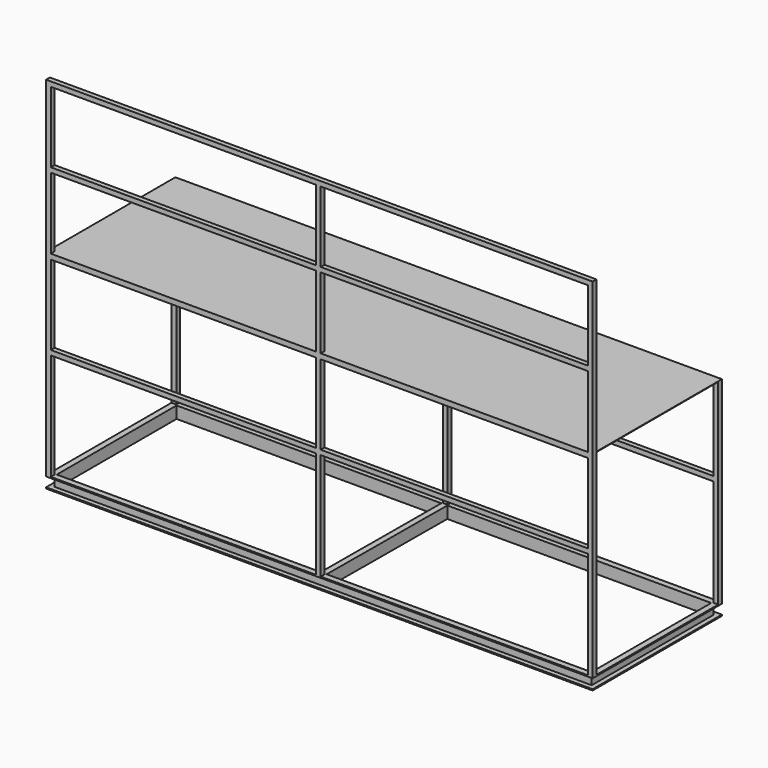
from build123d import *

# Parameters (mm, degrees)
F0_W          = 4600
F0_H          = 1360
F1_DEPTH      = 100
F2_W          = 40
F2_H          = 80
F3_DEPTH      = 4600.001
F4_W          = 40
F4_H          = 80
F5_DEPTH      = 1320.001
F7_W          = 90
F7_H          = 80
F8_DEPTH      = 630
F8_DEPTH_BACK = 630
F9_W          = 40
F9_H          = 40
F10_DEPTH     = 2930
F11_W         = 4600
F11_H         = 1360
F12_DEPTH     = 4
F13_DEPTH     = 1650
F14_W         = 40
F14_H         = 40
F15_DEPTH     = 4560


with BuildPart() as f1:
    # F0 (on Top) → F1 (new body)
    with BuildSketch(Plane.XY):
        Rectangle(F0_W, F0_H)
        Polygon((-2250, -630), (-2250, 630), (-21.3644690673, 630), (-28.6363636364, -630), align=None, mode=Mode.SUBTRACT)
        Polygon((28.6363636364, 630), (2250, 630), (2250, -630), (21.3644690673, -630), align=None, mode=Mode.SUBTRACT)
    extrude(amount=F1_DEPTH)

    # F2 (on face) → F3 (cut, through all)
    with BuildSketch(Plane(origin=(-2300, 0, 0), x_dir=(0, -1, 0), z_dir=(-1, 0, 0))):
        with Locations((-660, 50)):
            Rectangle(F2_W, F2_H)
        with Locations((660, 50)):
            Rectangle(F2_W, F2_H)
    extrude(amount=-F3_DEPTH, mode=Mode.SUBTRACT)

    # F4 (on face) → F5 (cut, through all)
    with BuildSketch(Plane.XZ.offset(640)):
        with Locations((2280, 50)):
            Rectangle(F4_W, F4_H)
        with Locations((-2280, 50)):
            Rectangle(F4_W, F4_H)
    extrude(amount=-F5_DEPTH, mode=Mode.SUBTRACT)

    # F7 (on Front) → F8 (cut, two sides)
    with BuildSketch(Plane.XZ) as f8_sk:
        with Locations((-45, 50)):
            Rectangle(F7_W, F7_H)
    extrude(amount=-F8_DEPTH, mode=Mode.SUBTRACT)
    extrude(f8_sk.sketch, amount=F8_DEPTH_BACK, mode=Mode.SUBTRACT)

    # F9 (on face) → F10 (join)
    with BuildSketch(Plane.XY.offset(100)):
        with Locations((-2280, -660)):
            Rectangle(F9_W, F9_H)
        with Locations((2280, -660)):
            Rectangle(F9_W, F9_H)
        with Locations((-8.6940770853, -660)):
            Rectangle(F9_W, F9_H)
    extrude(amount=F10_DEPTH)

    # F11 (on offset) → F12 (join)
    with BuildSketch(Plane.XY.offset(1750)):
        Rectangle(F11_W, F11_H)
    extrude(amount=F12_DEPTH)

    # F9 (on face) → F13 (join)
    with BuildSketch(Plane.XY.offset(100)):
        with Locations((-2280, 660)):
            Rectangle(F9_W, F9_H)
        with Locations((2280, 660)):
            Rectangle(F9_W, F9_H)
        Polygon((23.9241814479, 680), (-16.0758185521, 680), (-16.3066685033, 640.0006661518), (23.6933314967, 640.0006661518), align=None)
        with Locations((-2280, -660)):
            Rectangle(F9_W, F9_H)
        with Locations((-8.6940770853, -660)):
            Rectangle(F9_W, F9_H)
        with Locations((2280, -660)):
            Rectangle(F9_W, F9_H)
    extrude(amount=F13_DEPTH)

    # F14 (on face) → F15 (join, through all)
    with BuildSketch(Plane.YZ.offset(2300)):
        with Locations((-660, 3010)):
            Rectangle(F14_W, F14_H)
        with Locations((660, 1020)):
            Rectangle(F14_W, F14_H)
        with Locations((-660, 1020)):
            Rectangle(F14_W, F14_H)
        with Locations((-660, 2374)):
            Rectangle(F14_W, F14_H)
        with Locations((-660, 1730)):
            Rectangle(F14_W, F14_H)
        with Locations((660, 1730)):
            Rectangle(F14_W, F14_H)
    extrude(amount=-F15_DEPTH)


solid = f1.part
